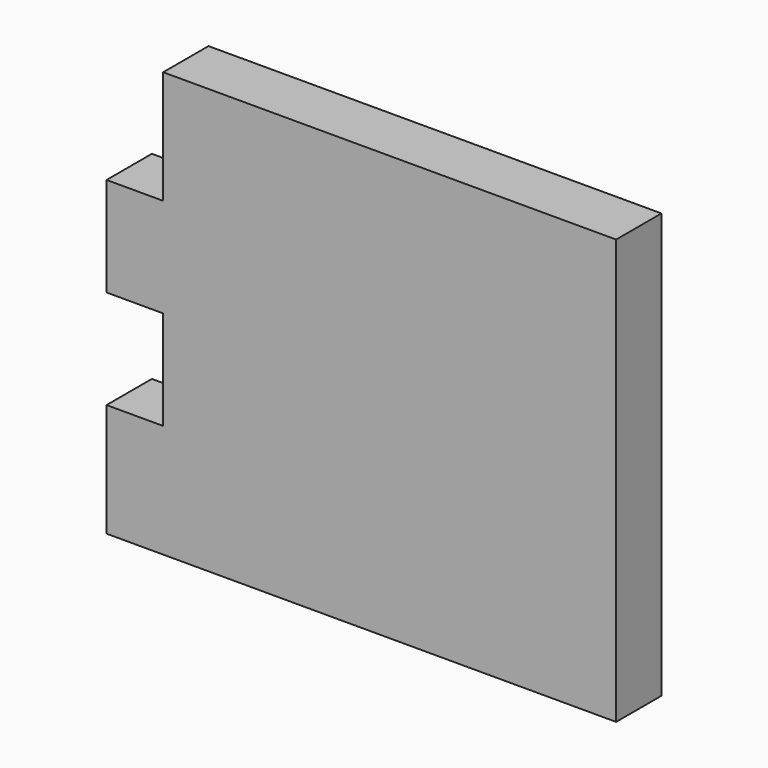
from build123d import *

# Parameters (mm, degrees)
F0_W     = 20
F0_H     = 35
F0_H_2   = 40
F1_DEPTH = 20


with BuildPart() as f1:
    # F0 (on Front) → F1 (new body)
    with BuildSketch(Plane.XZ):
        Polygon((89.008551, 73.575356), (-70.991449, 73.575356), (-70.991449, 33.575356), (-70.991449, -1.424644), (-70.991449, -36.424644), (-70.991449, -76.424644), (89.008551, -76.424644), align=None)
        with Locations((-80.991449, 16.075356)):
            Rectangle(F0_W, F0_H)
        with Locations((-80.991449, -56.424644)):
            Rectangle(F0_W, F0_H_2)
    extrude(amount=F1_DEPTH)


solid = f1.part
